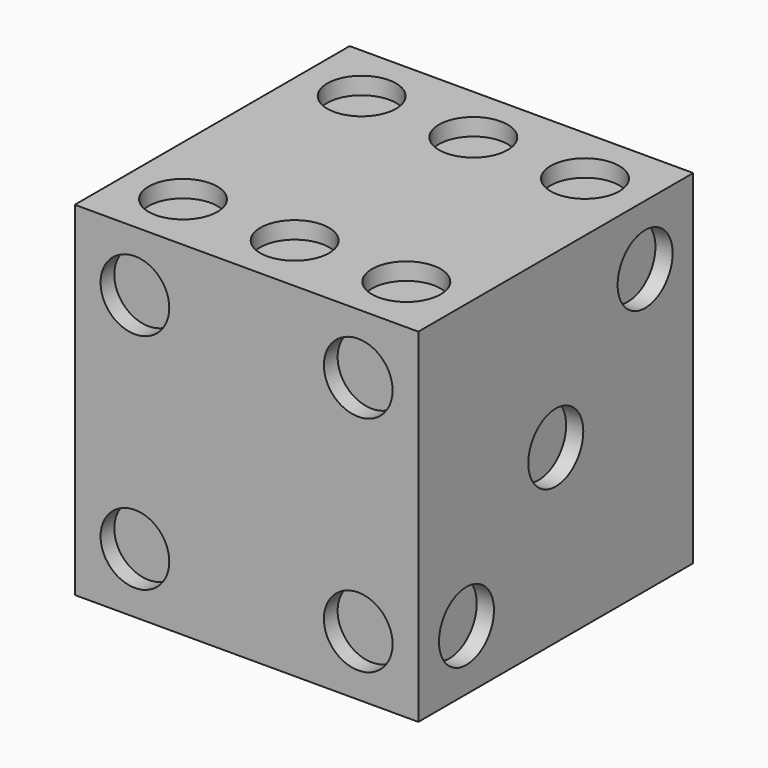
from build123d import *

# Parameters (mm, degrees)
F0_W      = 127
F0_H      = 127
F1_DEPTH  = 127
F2_R      = 12.7
F3_DEPTH  = 6.35
F4_R      = 12.7
F5_DEPTH  = 6.35
F6_R      = 12.7
F7_DEPTH  = 6.35
F8_R      = 12.7
F9_DEPTH  = 6.35
F10_R     = 12.7
F11_DEPTH = 6.35
F12_R     = 12.7
F13_DEPTH = 6.35


with BuildPart() as f1:
    # F0 (on Front) → F1 (new body)
    with BuildSketch(Plane.XZ):
        with Locations((63.5, 63.5)):
            Rectangle(F0_W, F0_H)
    extrude(amount=F1_DEPTH)

    # F2 (on Top) → F3 (cut)
    with BuildSketch(Plane.XY):
        with Locations((63.5, -63.5)):
            Circle(F2_R)
    extrude(amount=F3_DEPTH, mode=Mode.SUBTRACT)

    # F4 (on face) → F5 (cut)
    with BuildSketch(Plane.XZ):
        with Locations((104.775, 22.225)):
            Circle(F4_R)
        with Locations((22.225, 104.775)):
            Circle(F4_R)
    extrude(amount=F5_DEPTH, mode=Mode.SUBTRACT)

    # F6 (on face) → F7 (cut)
    with BuildSketch(Plane.YZ.offset(127)):
        with Locations((-22.225, 104.775)):
            Circle(F6_R)
        with Locations((-63.5, 63.5)):
            Circle(F6_R)
        with Locations((-104.775, 22.225)):
            Circle(F6_R)
    extrude(amount=-F7_DEPTH, mode=Mode.SUBTRACT)

    # F8 (on face) → F9 (cut)
    with BuildSketch(Plane.XZ.offset(127)):
        with Locations((104.775, 104.775)):
            Circle(F8_R)
        with Locations((104.775, 22.225)):
            Circle(F8_R)
        with Locations((22.225, 22.225)):
            Circle(F8_R)
        with Locations((22.225, 104.775)):
            Circle(F8_R)
    extrude(amount=-F9_DEPTH, mode=Mode.SUBTRACT)

    # F10 (on face) → F11 (cut)
    with BuildSketch(Plane(origin=(0, 0, 0), x_dir=(0, -1, 0), z_dir=(-1, 0, 0))):
        with Locations((104.775, 22.225)):
            Circle(F10_R)
        with Locations((22.225, 22.225)):
            Circle(F10_R)
        with Locations((63.5, 63.5)):
            Circle(F10_R)
        with Locations((104.775, 104.775)):
            Circle(F10_R)
        with Locations((22.225, 104.775)):
            Circle(F10_R)
    extrude(amount=-F11_DEPTH, mode=Mode.SUBTRACT)

    # F12 (on face) → F13 (cut)
    with BuildSketch(Plane.XY.offset(127)):
        with Locations((22.225, -104.775)):
            Circle(F12_R)
        with Locations((63.5, -104.775)):
            Circle(F12_R)
        with Locations((104.775, -104.775)):
            Circle(F12_R)
        with Locations((104.775, -22.225)):
            Circle(F12_R)
        with Locations((63.5, -22.225)):
            Circle(F12_R)
        with Locations((22.225, -22.225)):
            Circle(F12_R)
    extrude(amount=-F13_DEPTH, mode=Mode.SUBTRACT)


solid = f1.part
